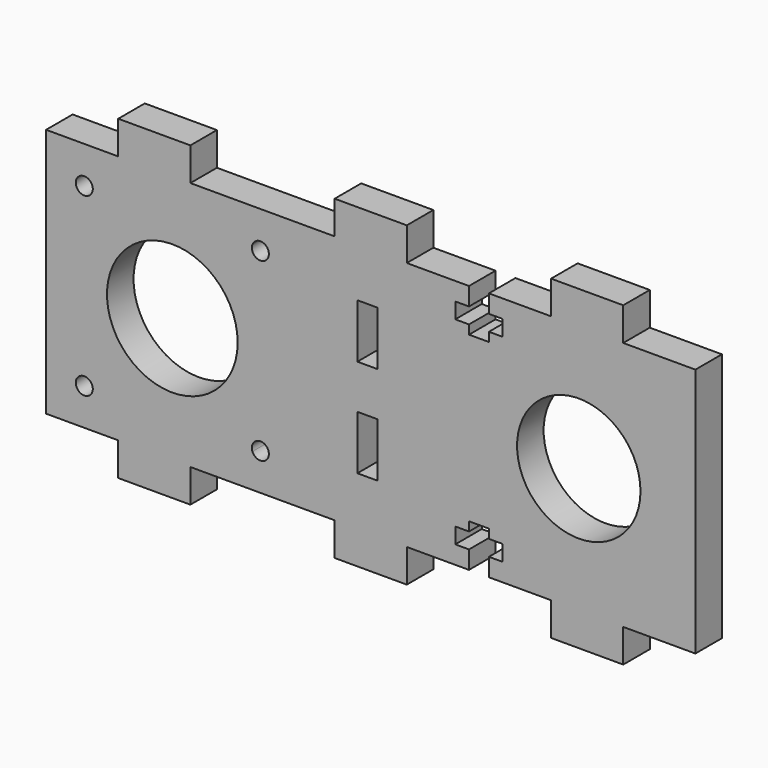
from build123d import *

# Parameters (mm, degrees)
F0_R     = 1.5
F0_W     = 3.5052
F0_H     = 9.525
F0_R_2   = 11.5
F0_R_3   = 10.8625
F1_DEPTH = 5.842


with BuildPart() as f1:
    # F0 (on Front) → F1 (new body)
    with BuildSketch(Plane.XZ):
        Polygon((-44.45, 22.00021), (-57.1500007371, 22.00021), (-57.1499992629, -22.00021), (-44.45, -22.00021), (-44.45, -27.84221), (-31.75, -27.84221), (-31.75, -22.00021), (-20.8026, -22.00021), (-17.2974, -22.00021), (-6.35, -22.00021), (-6.35, -27.84221), (6.35, -27.84221), (6.35, -22.00021), (17.2974, -22.00021), (17.2974, -18.82521), (14.88125, -18.82521), (14.88125, -16.047085), (17.2974, -16.047085), (17.2974, -14.459585), (20.8026, -14.459585), (20.8026, -16.047085), (23.21875, -16.047085), (23.21875, -18.82521), (20.8026, -18.82521), (20.8026, -22.00021), (31.75, -22.00021), (31.75, -27.84221), (44.45, -27.84221), (44.45, -22.00021), (57.1500007371, -22.00021), (57.1499992629, 22.00021), (44.45, 22.00021), (44.45, 27.84221), (31.75, 27.84221), (31.75, 22.00021), (20.8026, 22.00021), (20.8026, 18.82521), (23.21875, 18.82521), (23.21875, 16.047085), (20.8026, 16.047085), (20.8026, 14.459585), (17.2974, 14.459585), (17.2974, 16.047085), (14.88125, 16.047085), (14.88125, 18.82521), (17.2974, 18.82521), (17.2974, 22.00021), (6.35, 22.00021), (6.35, 27.84221), (-6.35, 27.84221), (-6.35, 22.00021), (-17.2974, 22.00021), (-20.8026, 22.00021), (-31.75, 22.00021), (-31.75, 27.84221), (-44.45, 27.84221), align=None)
        with Locations((-50.425, -15.5)):
            Circle(F0_R, mode=Mode.SUBTRACT)
        with BuildLine():
            ThreePointArc((-20.8216739071, -16.047085), (-19.7033784648, -14.0260578606), (-17.925, -15.5))
            ThreePointArc((-17.925, -15.5), (-19.1466215352, -16.9739421394), (-20.8216739071, -16.047085))
        make_face(mode=Mode.SUBTRACT)
        with Locations((-0.5969042566, -8.6458698832)):
            Rectangle(F0_W, F0_H, mode=Mode.SUBTRACT)
        with Locations((-34.925, 0)):
            Circle(F0_R_2, mode=Mode.SUBTRACT)
        with Locations((-0.5969042566, 8.6458698832)):
            Rectangle(F0_W, F0_H, mode=Mode.SUBTRACT)
        with Locations((-50.425, 15.5)):
            Circle(F0_R, mode=Mode.SUBTRACT)
        with BuildLine():
            ThreePointArc((-20.8216739071, 16.047085), (-19.1466215352, 16.9739421394), (-17.925, 15.5))
            ThreePointArc((-17.925, 15.5), (-19.7033784648, 14.0260578606), (-20.8216739071, 16.047085))
        make_face(mode=Mode.SUBTRACT)
        with Locations((36.6268, 0)):
            Circle(F0_R_3, mode=Mode.SUBTRACT)
    extrude(amount=F1_DEPTH)


solid = f1.part
